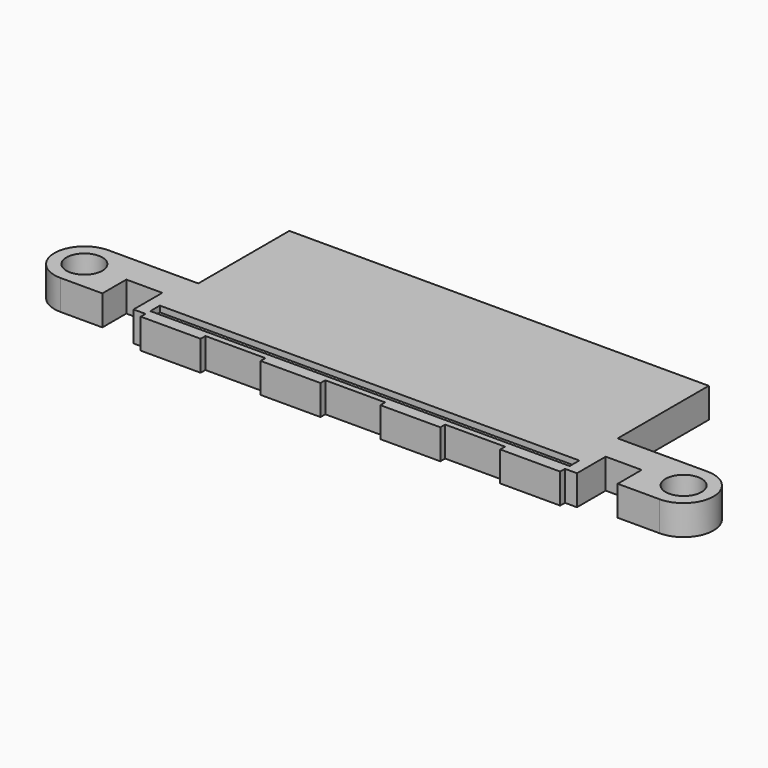
from build123d import *

# Parameters (mm, degrees)
F1_R     = 3
F2_DEPTH = 5
F3_W     = 70
F3_H     = 2
F4_DEPTH = 1


with BuildPart() as f2:
    # F1 (on Top) → F2 (new body)
    with BuildSketch(Plane.XY):
        with BuildLine():
            Line((-5, -15), (0, -15))
            Line((0, -15), (5, -15))
            Line((5, -15), (5, -16))
            Line((5, -16), (15, -16))
            Line((15, -16), (15, -15))
            Line((15, -15), (25, -15))
            Line((25, -15), (25, -16))
            Line((25, -16), (35, -16))
            Line((35, -16), (35, -15))
            Line((35, -15), (37, -15))
            Line((37, -15), (37, -14))
            Line((37, -14), (37, -9))
            Line((37, -9), (43, -9))
            Line((43, -9), (43, -14))
            Line((43, -14), (45, -14))
            Line((45, -14), (50, -14))
            ThreePointArc((50, -14), (55, -9), (50, -4))
            Line((50, -4), (35, -4))
            Line((35, -4), (35, 15))
            Line((35, 15), (0, 15))
            Line((0, 15), (-35, 15))
            Line((-35, 15), (-35, -4))
            Line((-35, -4), (-50, -4))
            ThreePointArc((-50, -4), (-55, -9), (-50, -14))
            Line((-50, -14), (-45, -14))
            Line((-45, -14), (-43, -14))
            Line((-43, -14), (-43, -9))
            Line((-43, -9), (-37, -9))
            Line((-37, -9), (-37, -14))
            Line((-37, -14), (-37, -15))
            Line((-37, -15), (-35, -15))
            Line((-35, -15), (-35, -16))
            Line((-35, -16), (-25, -16))
            Line((-25, -16), (-25, -15))
            Line((-25, -15), (-15, -15))
            Line((-15, -15), (-15, -16))
            Line((-15, -16), (-5, -16))
            Line((-5, -16), (-5, -15))
        make_face()
        with Locations((-50, -9)):
            Circle(F1_R, mode=Mode.SUBTRACT)
        with Locations((50, -9)):
            Circle(F1_R, mode=Mode.SUBTRACT)
    extrude(amount=F2_DEPTH)

    # F3 (on face) → F4 (cut)
    with BuildSketch(Plane.XY.offset(5)):
        with Locations((0, -13)):
            Rectangle(F3_W, F3_H)
    extrude(amount=-F4_DEPTH, mode=Mode.SUBTRACT)


solid = f2.part
